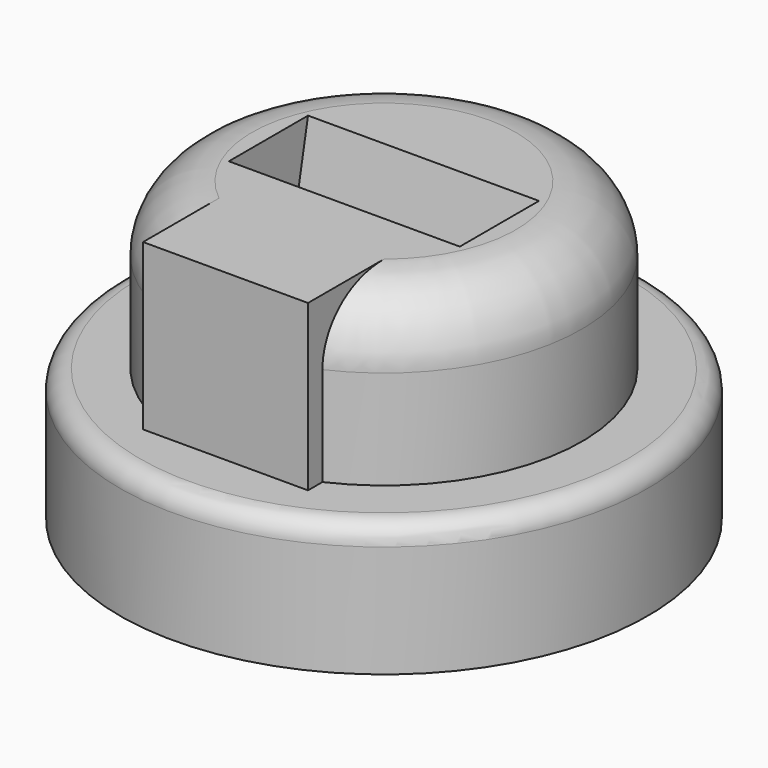
from build123d import *

# Parameters (mm, degrees)
F3_W      = 25
F3_H      = 25
F4_DEPTH  = 25
F5_R      = 10
F6_R      = 3
F7_W      = 35
F7_H      = 15
F8_W      = 35
F8_H      = 15
F10_R     = 36.5
F11_DEPTH = 17
F12_W     = 8
F12_H     = 5.5
F13_DEPTH = 20.001


with BuildPart() as f1:
    # F0 (on Front) → F1 (revolve)
    with BuildSketch(Plane.XZ):
        Polygon((-40, 0), (0, 0), (0, 20), (0, 45), (-30, 45), (-30, 20), (-40, 20), align=None)
    revolve(axis=Axis((0, 0, 32.5), (0, 0, -1)))

    # F3 (on offset) → F4 (join)
    with BuildSketch(Plane.XZ.offset(30)):
        with Locations((0, 32.5)):
            Rectangle(F3_W, F3_H)
    extrude(amount=-F4_DEPTH)

    # F5
    f5_edges = [f1.edges().sort_by_distance(p)[0] for p in [
        (0, 30, 45),
    ]]
    fillet(f5_edges, radius=F5_R)

    # F6
    f6_edges = [f1.edges().sort_by_distance(p)[0] for p in [
        (40, 0, 20),
    ]]
    fillet(f6_edges, radius=F6_R)

    # F7 (on face) → F9 section 0
    with BuildSketch(Plane.XY.offset(45)):
        Rectangle(F7_W, F7_H)
    # F8 (on face) → F9 section 1
    with BuildSketch(Plane.XY.offset(20)):
        with Locations((0, -5)):
            Rectangle(F8_W, F8_H)
    loft(mode=Mode.SUBTRACT)

    # F10 (on face) → F11 (cut)
    with BuildSketch(Plane(origin=(0, 0, 0), x_dir=(1, 0, 0), z_dir=(0, 0, -1))):
        Circle(F10_R)
    extrude(amount=-F11_DEPTH, mode=Mode.SUBTRACT)

    # F12 (on face) → F13 (cut, through all)
    with BuildSketch(Plane.XY.offset(20)):
        with Locations((0, -5)):
            Rectangle(F12_W, F12_H)
    extrude(amount=-F13_DEPTH, mode=Mode.SUBTRACT)


solid = f1.part
